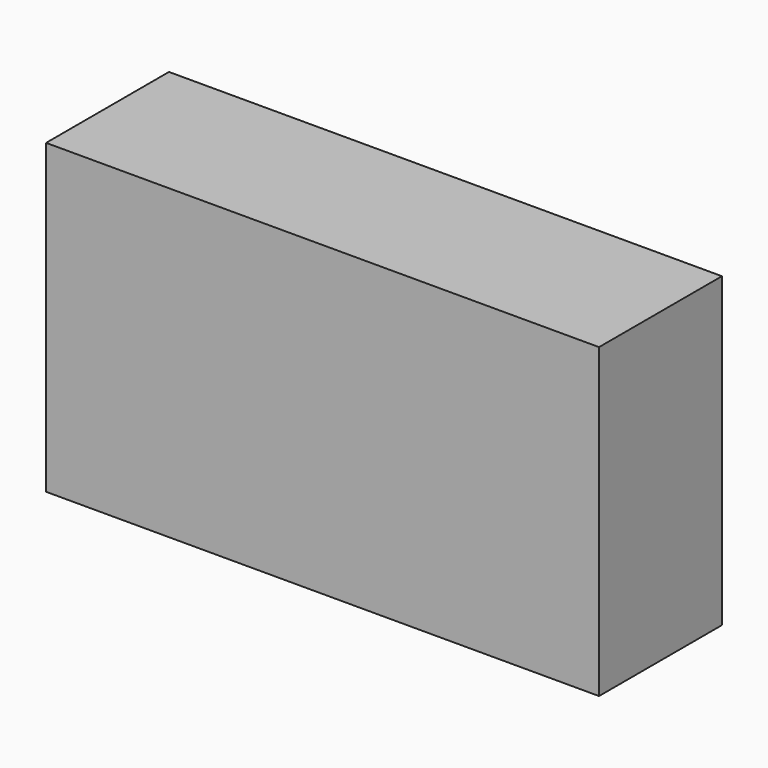
from build123d import *

# Parameters (mm, degrees)
SKETCH_W      = 90
SKETCH_H      = 25
EXTRUDE_DEPTH = 50


with BuildPart() as part:
    # Sketch → Extrude (new body)
    with BuildSketch(Plane.XY):
        Rectangle(SKETCH_W, SKETCH_H)
    extrude(amount=EXTRUDE_DEPTH)


solid = part.part
